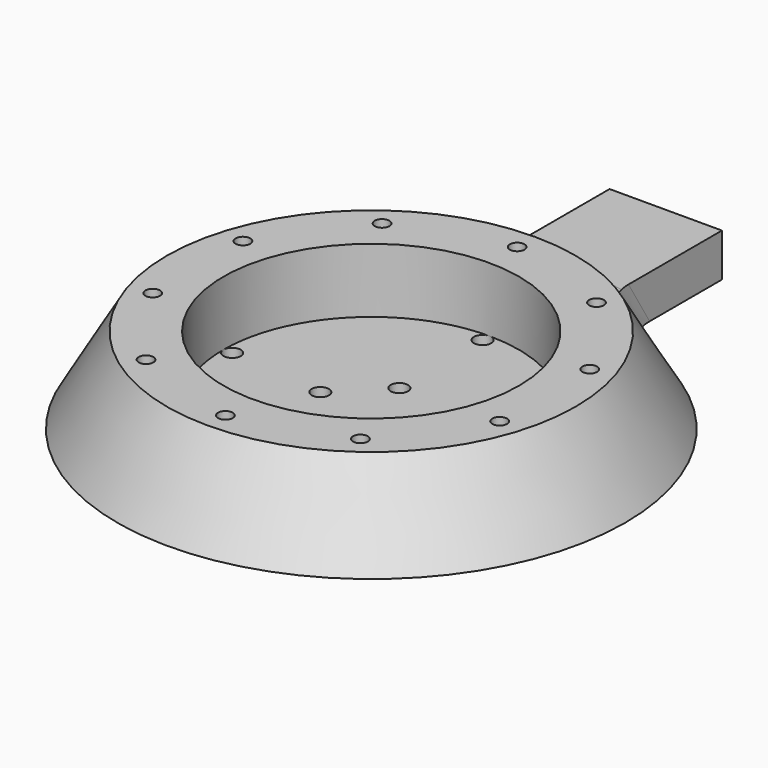
from build123d import *

# Parameters (mm, degrees)
HOLE_D             = 3.4
HOLE_DEPTH         = 25
HOLE_CBORE_D       = 6
HOLE_CBORE_DEPTH   = 14.9
POLARPATTERN_COUNT = 10
SKETCH002_W        = 26
SKETCH002_H        = 10
PAD_DEPTH          = 40
SKETCH003_R        = 2
POCKET_DEPTH       = 5.001
FILLET_R           = 7.5
SKETCH005_R        = 2.8
POCKET001_DEPTH    = 9.1


with BuildPart() as part:
    # Sketch → Revolution (revolve)
    with BuildSketch(Plane.XZ):
        Polygon((47.316098, 19.9), (58.81, 0), (0, 0), (0, 5), (34.2085, 5), (34.2085, 19.9), align=None)
    revolve(axis=Axis((0, 0, 0), (0, 0, 1)))

    # Hole
    with Locations(Plane(origin=(0, 0, 0), x_dir=(1, 0, 0), z_dir=(0, 0, -1))):
        with Locations((0, 42.2085)):
            hole = CounterBoreHole(HOLE_D / 2, HOLE_CBORE_D / 2, HOLE_CBORE_DEPTH, depth=HOLE_DEPTH)

    # PolarPattern: Hole ×10 about axis
    polarpattern_axis = Axis((0, 0, 0), (0, 0, -1))
    for i in range(1, POLARPATTERN_COUNT):
        add(hole.rotate(polarpattern_axis, i * 360 / POLARPATTERN_COUNT), mode=Mode.SUBTRACT)

    # Sketch002 → Pad (new body)
    with BuildSketch(Plane.XZ.offset(-45.2)):
        with Locations((0, 5)):
            Rectangle(SKETCH002_W, SKETCH002_H)
    extrude(amount=-PAD_DEPTH)

    # Sketch003 (on Face44 of Pad) → Pocket (cut, through all)
    with BuildSketch(Plane(origin=(0, 0, 5), x_dir=(-1, 0, 0), z_dir=(0, 0, 1))):
        with Locations((0, 12.19)):
            Circle(SKETCH003_R)
        with Locations((0, -8.13)):
            Circle(SKETCH003_R)
        with Locations((-10.16, 2.03)):
            Circle(SKETCH003_R)
        with Locations((10.16, 2.03)):
            Circle(SKETCH003_R)
        with Locations((0, 32.2085)):
            Circle(SKETCH003_R)
        with Locations((32.2085, 0)):
            Circle(SKETCH003_R)
        with Locations((0, -32.2085)):
            Circle(SKETCH003_R)
        with Locations((-32.2085, 0)):
            Circle(SKETCH003_R)
    extrude(amount=-POCKET_DEPTH, mode=Mode.SUBTRACT)

    # Fillet
    fillet_edges = [part.edges().sort_by_distance(p)[0] for p in [
        (13, 54.388923, 5.001929),
        (0, 53.03417, 10),
        (-13, 54.388923, 5.001929),
    ]]
    fillet(fillet_edges, radius=FILLET_R)

    # Sketch005 (on Face41 of Fillet) → Pocket001 (cut)
    with BuildSketch(Plane(origin=(0, 85.2, 0), x_dir=(1, 0, 0), z_dir=(0, 1, 0))):
        with Locations((-6.5, -5)):
            Circle(SKETCH005_R)
        with Locations((6.5, -5)):
            Circle(SKETCH005_R)
    extrude(amount=-POCKET001_DEPTH, mode=Mode.SUBTRACT)


solid = part.part
